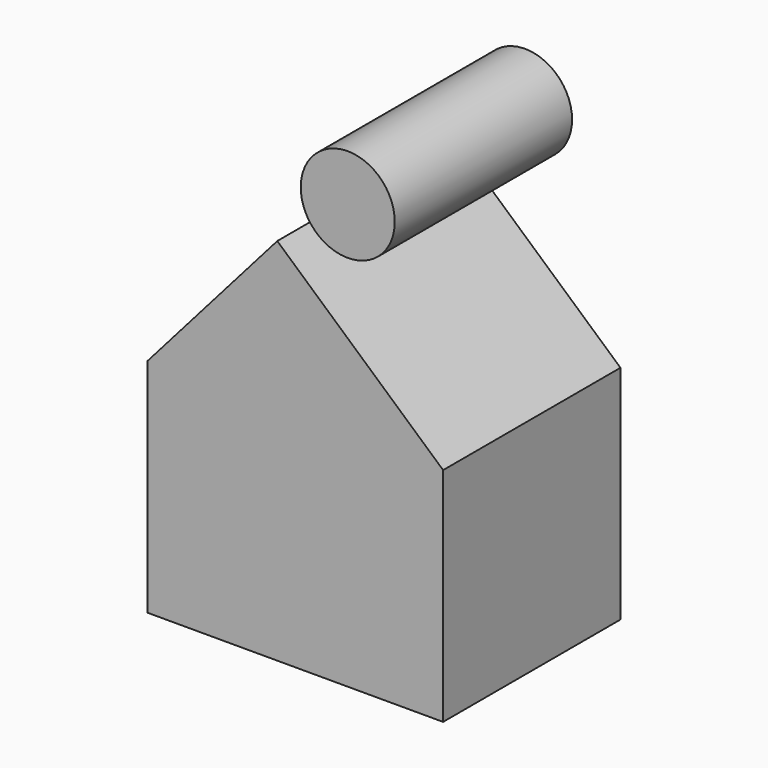
from build123d import *

# Parameters (mm, degrees)
F0_W     = 101.6
F0_H     = 76.2
F0_R     = 16.158046
F1_DEPTH = 76.2


with BuildPart() as f1:
    # F0 (on Front) → F1 (new body)
    with BuildSketch(Plane.XZ):
        Polygon((0, 71.326744), (-44.597673, 20.526744), (57.002327, 20.526744), align=None)
        with Locations((6.202327, -17.573256)):
            Rectangle(F0_W, F0_H)
        with Locations((24.218603, 90.229076)):
            Circle(F0_R)
    extrude(amount=F1_DEPTH)


solid = f1.part
